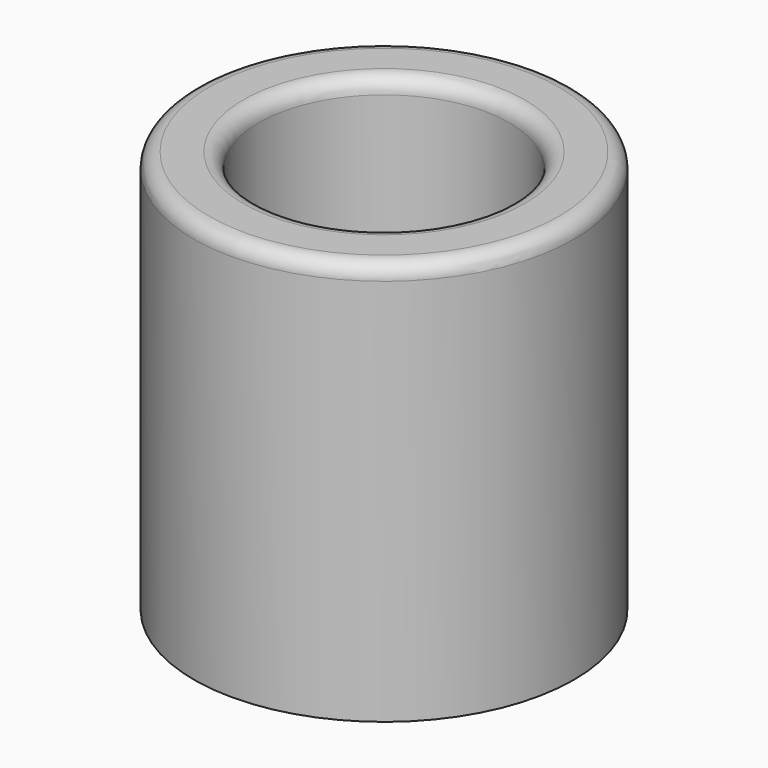
from build123d import *

# Parameters (mm, degrees)
F0_R     = 25
F1_DEPTH = 3
F2_R     = 25
F2_R_2   = 16.5
F3_DEPTH = 50
F4_R     = 2


with BuildPart() as f1:
    # F0 (on Top) → F1 (new body)
    with BuildSketch(Plane.XY):
        Circle(F0_R)
    extrude(amount=F1_DEPTH)

    # F2 (on face) → F3 (join)
    with BuildSketch(Plane.XY.offset(3)):
        Circle(F2_R)
        Circle(F2_R_2, mode=Mode.SUBTRACT)
    extrude(amount=F3_DEPTH)

    # F4
    f4_edges = [f1.edges().sort_by_distance(p)[0] for p in [
        (-25, 0, 53),
        (-16.5, 0, 53),
        (-16.5, 0, 3),
    ]]
    fillet(f4_edges, radius=F4_R)


solid = f1.part
